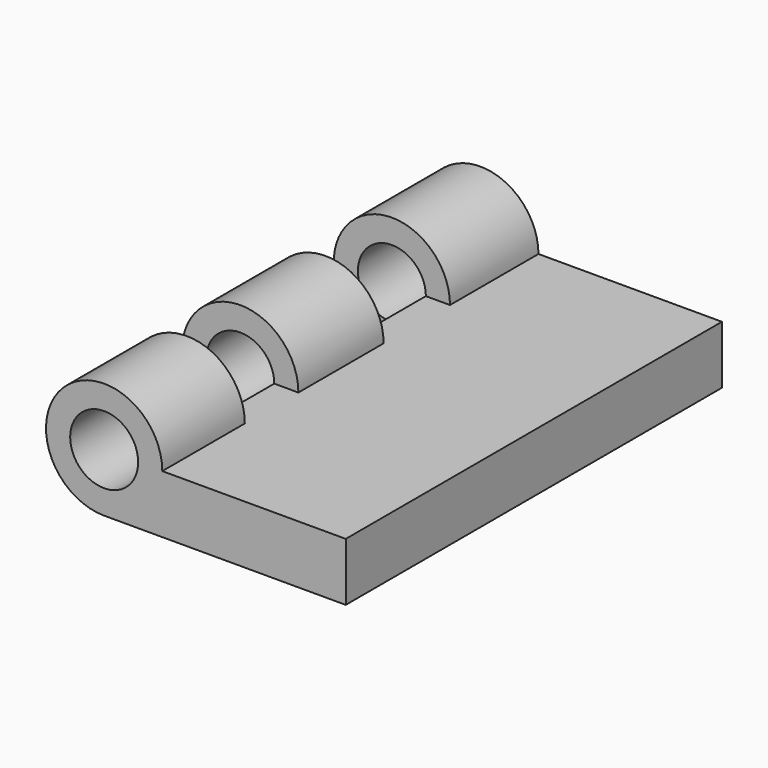
from build123d import *

# Parameters (mm, degrees)
F0_W     = 20.7803882658
F0_H     = 40.445305407
F1_DEPTH = 5
F2_W     = 9.5119066536
F2_H     = 5
F2_W_2   = 9.1619901359
F2_W_3   = 8.8719539344
F3_ANGLE = 270
F4_R     = 2.9239984628
F5_DEPTH = 100


with BuildPart() as f1:
    # F0 (on Top) → F1 (new body)
    with BuildSketch(Plane.XY):
        with Locations((-64.4678976387, 30.4752923548)):
            Rectangle(F0_W, F0_H)
    extrude(amount=F1_DEPTH)

    # F2 (on face) → F3 (revolve)
    with BuildSketch(Plane(origin=(-74.8580917716, 0, 0), x_dir=(0, -1, 0), z_dir=(-1, 0, 0))):
        with Locations((-45.9419917315, 2.5)):
            Rectangle(F2_W, F2_H)
        with Locations((-29.4675175101, 2.5)):
            Rectangle(F2_W_2, F2_H)
        with Locations((-14.6886166185, 2.5)):
            Rectangle(F2_W_3, F2_H)
    revolve(axis=Axis((-74.8580917716, 28.935774928, 5), (0, 1, 0)), revolution_arc=F3_ANGLE)

    # F4 (on face) → F5 (cut)
    with BuildSketch(Plane(origin=(0, 50.6979450583, 0), x_dir=(-1, 0, 0), z_dir=(0, 1, 0))):
        with Locations((74.8580917716, 5)):
            Circle(F4_R)
    extrude(amount=-F5_DEPTH, mode=Mode.SUBTRACT)


solid = f1.part
